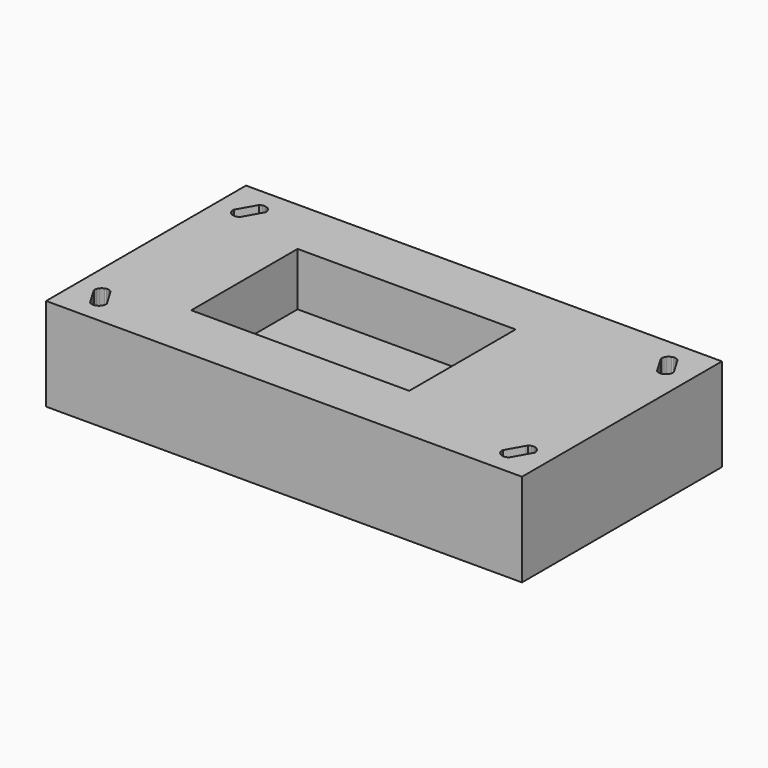
from build123d import *

# Parameters (mm, degrees)
F0_W     = 179
F0_H     = 94
F0_W_2   = 82
F0_H_2   = 49.999998
F1_DEPTH = 35
F2_DEPTH = 15


with BuildPart() as f1:
    # F0 (on Top) → F1 (new body)
    with BuildSketch(Plane.XY):
        Rectangle(F0_W, F0_H)
        Polygon((-79.489959, -29.920486), (-78.995136, -30.08246), (-78.53955, -30.334507), (-78.1386, -31.012478), (-74.467219, -37.220443), (-74.45244, -37.585563), (-74.445794, -37.74979), (-74.527791, -38.273187), (-74.710072, -38.77062), (-74.985671, -39.223072), (-75.344048, -39.613243), (-75.7715, -39.926215), (-76.251686, -40.15002), (-76.766246, -40.276102), (-77.295502, -40.29964), (-77.819223, -40.219734), (-78.31738, -40.039439), (-78.770929, -39.765649), (-82.84326, -32.879713), (-82.84465, -32.359057), (-82.748207, -31.847408), (-82.557362, -31.362987), (-82.278913, -30.923042), (-81.922774, -30.543238), (-81.501627, -30.237101), (-81.030467, -30.015529), (-80.526071, -29.886415), (-80.006401, -29.854352), align=None, mode=Mode.SUBTRACT)
        Polygon((82.808956, -32.243232), (82.818469, -32.763804), (78.891239, -39.733514), (78.443523, -40.016743), (77.949251, -40.207431), (77.427319, -40.298287), (76.897685, -40.285837), (76.380599, -40.17056), (75.895831, -39.956859), (75.461917, -39.652909), (75.095447, -39.270329), (74.810434, -38.823747), (74.617775, -38.33024), (74.524835, -37.808676), (74.530136, -37.537048), (74.53517, -37.278996), (78.125485, -30.907213), (78.4624, -30.309285), (78.912607, -30.047753), (79.403929, -29.875452), (79.918872, -29.798517), (80.439101, -29.819689), (80.946089, -29.938213), (81.421786, -30.149868), (81.849253, -30.447118), (82.213267, -30.81938), (82.500869, -31.253398), (82.701817, -31.733715), align=None, mode=Mode.SUBTRACT)
        with Locations((-11.5, 0)):
            Rectangle(F0_W_2, F0_H_2, mode=Mode.SUBTRACT)
        Polygon((-74.745494, 38.78665), (-74.544546, 38.306332), (-74.437408, 37.796815), (-74.432649, 37.536394), (-74.427894, 37.276243), (-78.019246, 30.902619), (-78.355124, 30.306533), (-78.80284, 30.023304), (-79.297113, 29.832617), (-79.819044, 29.741761), (-80.348679, 29.75421), (-80.865765, 29.869488), (-81.350532, 30.083188), (-81.784446, 30.387139), (-82.150917, 30.769718), (-82.435929, 31.2163), (-82.628588, 31.709807), (-82.721528, 32.231372), (-82.711193, 32.761052), (-78.783964, 39.730762), (-78.333757, 39.992295), (-77.842433, 40.164595), (-77.32749, 40.24153), (-76.807263, 40.220358), (-76.300273, 40.101835), (-75.824577, 39.890179), (-75.397111, 39.592929), (-75.033095, 39.220667), align=None, mode=Mode.SUBTRACT)
        Polygon((78.240855, 39.942996), (78.69644, 39.690949), (82.768772, 32.805012), (82.790197, 32.275666), (82.708201, 31.752269), (82.525919, 31.254834), (82.250321, 30.802382), (81.891943, 30.412212), (81.464491, 30.099241), (80.984305, 29.875435), (80.469745, 29.749353), (79.940489, 29.725815), (79.416768, 29.805721), (78.918611, 29.986015), (78.465062, 30.259805), (78.062882, 30.939855), (74.39273, 37.145741), (74.391731, 37.519846), (74.391341, 37.666399), (74.487784, 38.178047), (74.678629, 38.662468), (74.957078, 39.102413), (75.313217, 39.482216), (75.734364, 39.788353), (76.205524, 40.009925), (76.70992, 40.139041), (77.22959, 40.171102), (77.746032, 40.104968), align=None, mode=Mode.SUBTRACT)
    extrude(amount=F1_DEPTH)

    # F0 (on Top) → F2 (join)
    with BuildSketch(Plane.XY):
        with Locations((-11.5, 0)):
            Rectangle(F0_W_2, F0_H_2)
    extrude(amount=F2_DEPTH)


solid = f1.part
